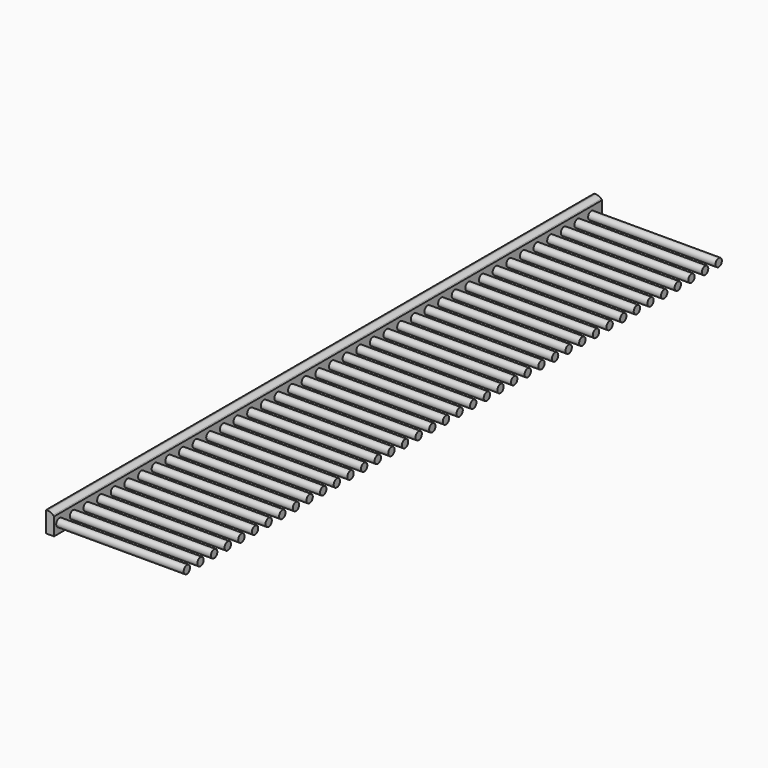
from build123d import *

# Parameters (mm, degrees)
F0_R     = 2.5
F1_DEPTH = 80
F0_W     = 430
F0_H     = 13
F2_DEPTH = 5
F3_SIZE  = 2
F4_R     = 5


with BuildPart() as f1:
    # F0 (on Right) → F1 (new body)
    with BuildSketch(Plane.YZ):
        with Locations((-200.1, 3.8362770776)):
            Circle(F0_R)
    extrude(amount=F1_DEPTH)


with BuildPart() as f1b:
    # F0 (on Right) → F1, piece 2 (new body)
    with BuildSketch(Plane.YZ):
        with Locations((-210.8, 3.8362770776)):
            Circle(F0_R)
    extrude(amount=F1_DEPTH)


with BuildPart() as f1c:
    # F0 (on Right) → F1, piece 3 (new body)
    with BuildSketch(Plane.YZ):
        with Locations((-189.4, 3.8362770776)):
            Circle(F0_R)
    extrude(amount=F1_DEPTH)


with BuildPart() as f1d:
    # F0 (on Right) → F1, piece 4 (new body)
    with BuildSketch(Plane.YZ):
        with Locations((-178.7, 3.8362770776)):
            Circle(F0_R)
    extrude(amount=F1_DEPTH)


with BuildPart() as f1e:
    # F0 (on Right) → F1, piece 5 (new body)
    with BuildSketch(Plane.YZ):
        with Locations((-168, 3.8362770776)):
            Circle(F0_R)
    extrude(amount=F1_DEPTH)


with BuildPart() as f1f:
    # F0 (on Right) → F1, piece 6 (new body)
    with BuildSketch(Plane.YZ):
        with Locations((-157.3, 3.8362770776)):
            Circle(F0_R)
    extrude(amount=F1_DEPTH)


with BuildPart() as f1g:
    # F0 (on Right) → F1, piece 7 (new body)
    with BuildSketch(Plane.YZ):
        with Locations((-146.6, 3.8362770776)):
            Circle(F0_R)
    extrude(amount=F1_DEPTH)


with BuildPart() as f1h:
    # F0 (on Right) → F1, piece 8 (new body)
    with BuildSketch(Plane.YZ):
        with Locations((-135.9, 3.8362770776)):
            Circle(F0_R)
    extrude(amount=F1_DEPTH)


with BuildPart() as f1i:
    # F0 (on Right) → F1, piece 9 (new body)
    with BuildSketch(Plane.YZ):
        with Locations((-125.2, 3.8362770776)):
            Circle(F0_R)
    extrude(amount=F1_DEPTH)


with BuildPart() as f1j:
    # F0 (on Right) → F1, piece 10 (new body)
    with BuildSketch(Plane.YZ):
        with Locations((-114.5, 3.8362770776)):
            Circle(F0_R)
    extrude(amount=F1_DEPTH)


with BuildPart() as f1k:
    # F0 (on Right) → F1, piece 11 (new body)
    with BuildSketch(Plane.YZ):
        with Locations((-103.8, 3.8362770776)):
            Circle(F0_R)
    extrude(amount=F1_DEPTH)


with BuildPart() as f1l:
    # F0 (on Right) → F1, piece 12 (new body)
    with BuildSketch(Plane.YZ):
        with Locations((-93.1, 3.8362770776)):
            Circle(F0_R)
    extrude(amount=F1_DEPTH)


with BuildPart() as f1m:
    # F0 (on Right) → F1, piece 13 (new body)
    with BuildSketch(Plane.YZ):
        with Locations((-82.4, 3.8362770776)):
            Circle(F0_R)
    extrude(amount=F1_DEPTH)


with BuildPart() as f1n:
    # F0 (on Right) → F1, piece 14 (new body)
    with BuildSketch(Plane.YZ):
        with Locations((-71.7, 3.8362770776)):
            Circle(F0_R)
    extrude(amount=F1_DEPTH)


with BuildPart() as f1o:
    # F0 (on Right) → F1, piece 15 (new body)
    with BuildSketch(Plane.YZ):
        with Locations((-61, 3.8362770776)):
            Circle(F0_R)
    extrude(amount=F1_DEPTH)


with BuildPart() as f1p:
    # F0 (on Right) → F1, piece 16 (new body)
    with BuildSketch(Plane.YZ):
        with Locations((-50.3, 3.8362770776)):
            Circle(F0_R)
    extrude(amount=F1_DEPTH)


with BuildPart() as f1q:
    # F0 (on Right) → F1, piece 17 (new body)
    with BuildSketch(Plane.YZ):
        with Locations((-39.6, 3.8362770776)):
            Circle(F0_R)
    extrude(amount=F1_DEPTH)


with BuildPart() as f1r:
    # F0 (on Right) → F1, piece 18 (new body)
    with BuildSketch(Plane.YZ):
        with Locations((-28.9, 3.8362770776)):
            Circle(F0_R)
    extrude(amount=F1_DEPTH)


with BuildPart() as f1s:
    # F0 (on Right) → F1, piece 19 (new body)
    with BuildSketch(Plane.YZ):
        with Locations((-18.2, 3.8362770776)):
            Circle(F0_R)
    extrude(amount=F1_DEPTH)


with BuildPart() as f1t:
    # F0 (on Right) → F1, piece 20 (new body)
    with BuildSketch(Plane.YZ):
        with Locations((-7.5, 3.8362770776)):
            Circle(F0_R)
    extrude(amount=F1_DEPTH)


with BuildPart() as f1u:
    # F0 (on Right) → F1, piece 21 (new body)
    with BuildSketch(Plane.YZ):
        with Locations((3.2, 3.8362770776)):
            Circle(F0_R)
    extrude(amount=F1_DEPTH)


with BuildPart() as f1v:
    # F0 (on Right) → F1, piece 22 (new body)
    with BuildSketch(Plane.YZ):
        with Locations((13.9, 3.8362770776)):
            Circle(F0_R)
    extrude(amount=F1_DEPTH)


with BuildPart() as f1w:
    # F0 (on Right) → F1, piece 23 (new body)
    with BuildSketch(Plane.YZ):
        with Locations((24.6, 3.8362770776)):
            Circle(F0_R)
    extrude(amount=F1_DEPTH)


with BuildPart() as f1x:
    # F0 (on Right) → F1, piece 24 (new body)
    with BuildSketch(Plane.YZ):
        with Locations((35.3, 3.8362770776)):
            Circle(F0_R)
    extrude(amount=F1_DEPTH)


with BuildPart() as f1y:
    # F0 (on Right) → F1, piece 25 (new body)
    with BuildSketch(Plane.YZ):
        with Locations((46, 3.8362770776)):
            Circle(F0_R)
    extrude(amount=F1_DEPTH)


with BuildPart() as f1z:
    # F0 (on Right) → F1, piece 26 (new body)
    with BuildSketch(Plane.YZ):
        with Locations((56.7, 3.8362770776)):
            Circle(F0_R)
    extrude(amount=F1_DEPTH)


with BuildPart() as f1ba:
    # F0 (on Right) → F1, piece 27 (new body)
    with BuildSketch(Plane.YZ):
        with Locations((67.4, 3.8362770776)):
            Circle(F0_R)
    extrude(amount=F1_DEPTH)


with BuildPart() as f1bb:
    # F0 (on Right) → F1, piece 28 (new body)
    with BuildSketch(Plane.YZ):
        with Locations((78.1, 3.8362770776)):
            Circle(F0_R)
    extrude(amount=F1_DEPTH)


with BuildPart() as f1bc:
    # F0 (on Right) → F1, piece 29 (new body)
    with BuildSketch(Plane.YZ):
        with Locations((88.8, 3.8362770776)):
            Circle(F0_R)
    extrude(amount=F1_DEPTH)


with BuildPart() as f1bd:
    # F0 (on Right) → F1, piece 30 (new body)
    with BuildSketch(Plane.YZ):
        with Locations((99.5, 3.8362770776)):
            Circle(F0_R)
    extrude(amount=F1_DEPTH)


with BuildPart() as f1be:
    # F0 (on Right) → F1, piece 31 (new body)
    with BuildSketch(Plane.YZ):
        with Locations((110.2, 3.8362770776)):
            Circle(F0_R)
    extrude(amount=F1_DEPTH)


with BuildPart() as f1bf:
    # F0 (on Right) → F1, piece 32 (new body)
    with BuildSketch(Plane.YZ):
        with Locations((120.9, 3.8362770776)):
            Circle(F0_R)
    extrude(amount=F1_DEPTH)


with BuildPart() as f1bg:
    # F0 (on Right) → F1, piece 33 (new body)
    with BuildSketch(Plane.YZ):
        with Locations((131.6, 3.8362770776)):
            Circle(F0_R)
    extrude(amount=F1_DEPTH)


with BuildPart() as f1bh:
    # F0 (on Right) → F1, piece 34 (new body)
    with BuildSketch(Plane.YZ):
        with Locations((142.3, 3.8362770776)):
            Circle(F0_R)
    extrude(amount=F1_DEPTH)


with BuildPart() as f1bi:
    # F0 (on Right) → F1, piece 35 (new body)
    with BuildSketch(Plane.YZ):
        with Locations((153, 3.8362770776)):
            Circle(F0_R)
    extrude(amount=F1_DEPTH)


with BuildPart() as f1bj:
    # F0 (on Right) → F1, piece 36 (new body)
    with BuildSketch(Plane.YZ):
        with Locations((163.7, 3.8362770776)):
            Circle(F0_R)
    extrude(amount=F1_DEPTH)


with BuildPart() as f1bk:
    # F0 (on Right) → F1, piece 37 (new body)
    with BuildSketch(Plane.YZ):
        with Locations((174.4, 3.8362770776)):
            Circle(F0_R)
    extrude(amount=F1_DEPTH)


with BuildPart() as f1bl:
    # F0 (on Right) → F1, piece 38 (new body)
    with BuildSketch(Plane.YZ):
        with Locations((185.1, 3.8362770776)):
            Circle(F0_R)
    extrude(amount=F1_DEPTH)


with BuildPart() as f1bm:
    # F0 (on Right) → F1, piece 39 (new body)
    with BuildSketch(Plane.YZ):
        with Locations((195.8, 3.8362770776)):
            Circle(F0_R)
    extrude(amount=F1_DEPTH)


with BuildPart() as f1bn:
    # F0 (on Right) → F1, piece 40 (new body)
    with BuildSketch(Plane.YZ):
        with Locations((206.5, 3.8362770776)):
            Circle(F0_R)
    extrude(amount=F1_DEPTH)


with BuildPart() as f2:
    # F0 (on Right) → F2 (new body)
    with BuildSketch(Plane.YZ):
        with Locations((0, 4.3362770776)):
            Rectangle(F0_W, F0_H)
        with Locations((-210.8, 3.8362770776)):
            Circle(F0_R, mode=Mode.SUBTRACT)
        with Locations((-200.1, 3.8362770776)):
            Circle(F0_R, mode=Mode.SUBTRACT)
        with Locations((-189.4, 3.8362770776)):
            Circle(F0_R, mode=Mode.SUBTRACT)
        with Locations((-178.7, 3.8362770776)):
            Circle(F0_R, mode=Mode.SUBTRACT)
        with Locations((-168, 3.8362770776)):
            Circle(F0_R, mode=Mode.SUBTRACT)
        with Locations((-157.3, 3.8362770776)):
            Circle(F0_R, mode=Mode.SUBTRACT)
        with Locations((-146.6, 3.8362770776)):
            Circle(F0_R, mode=Mode.SUBTRACT)
        with Locations((-135.9, 3.8362770776)):
            Circle(F0_R, mode=Mode.SUBTRACT)
        with Locations((-125.2, 3.8362770776)):
            Circle(F0_R, mode=Mode.SUBTRACT)
        with Locations((-114.5, 3.8362770776)):
            Circle(F0_R, mode=Mode.SUBTRACT)
        with Locations((-103.8, 3.8362770776)):
            Circle(F0_R, mode=Mode.SUBTRACT)
        with Locations((-93.1, 3.8362770776)):
            Circle(F0_R, mode=Mode.SUBTRACT)
        with Locations((-82.4, 3.8362770776)):
            Circle(F0_R, mode=Mode.SUBTRACT)
        with Locations((-71.7, 3.8362770776)):
            Circle(F0_R, mode=Mode.SUBTRACT)
        with Locations((-61, 3.8362770776)):
            Circle(F0_R, mode=Mode.SUBTRACT)
        with Locations((-50.3, 3.8362770776)):
            Circle(F0_R, mode=Mode.SUBTRACT)
        with Locations((-39.6, 3.8362770776)):
            Circle(F0_R, mode=Mode.SUBTRACT)
        with Locations((-28.9, 3.8362770776)):
            Circle(F0_R, mode=Mode.SUBTRACT)
        with Locations((-18.2, 3.8362770776)):
            Circle(F0_R, mode=Mode.SUBTRACT)
        with Locations((-7.5, 3.8362770776)):
            Circle(F0_R, mode=Mode.SUBTRACT)
        with Locations((3.2, 3.8362770776)):
            Circle(F0_R, mode=Mode.SUBTRACT)
        with Locations((13.9, 3.8362770776)):
            Circle(F0_R, mode=Mode.SUBTRACT)
        with Locations((24.6, 3.8362770776)):
            Circle(F0_R, mode=Mode.SUBTRACT)
        with Locations((35.3, 3.8362770776)):
            Circle(F0_R, mode=Mode.SUBTRACT)
        with Locations((46, 3.8362770776)):
            Circle(F0_R, mode=Mode.SUBTRACT)
        with Locations((56.7, 3.8362770776)):
            Circle(F0_R, mode=Mode.SUBTRACT)
        with Locations((67.4, 3.8362770776)):
            Circle(F0_R, mode=Mode.SUBTRACT)
        with Locations((78.1, 3.8362770776)):
            Circle(F0_R, mode=Mode.SUBTRACT)
        with Locations((88.8, 3.8362770776)):
            Circle(F0_R, mode=Mode.SUBTRACT)
        with Locations((99.5, 3.8362770776)):
            Circle(F0_R, mode=Mode.SUBTRACT)
        with Locations((110.2, 3.8362770776)):
            Circle(F0_R, mode=Mode.SUBTRACT)
        with Locations((120.9, 3.8362770776)):
            Circle(F0_R, mode=Mode.SUBTRACT)
        with Locations((131.6, 3.8362770776)):
            Circle(F0_R, mode=Mode.SUBTRACT)
        with Locations((142.3, 3.8362770776)):
            Circle(F0_R, mode=Mode.SUBTRACT)
        with Locations((153, 3.8362770776)):
            Circle(F0_R, mode=Mode.SUBTRACT)
        with Locations((163.7, 3.8362770776)):
            Circle(F0_R, mode=Mode.SUBTRACT)
        with Locations((174.4, 3.8362770776)):
            Circle(F0_R, mode=Mode.SUBTRACT)
        with Locations((185.1, 3.8362770776)):
            Circle(F0_R, mode=Mode.SUBTRACT)
        with Locations((195.8, 3.8362770776)):
            Circle(F0_R, mode=Mode.SUBTRACT)
        with Locations((206.5, 3.8362770776)):
            Circle(F0_R, mode=Mode.SUBTRACT)
        with Locations((206.5, 3.8362770776)):
            Circle(F0_R)
        with Locations((195.8, 3.8362770776)):
            Circle(F0_R)
        with Locations((185.1, 3.8362770776)):
            Circle(F0_R)
        with Locations((174.4, 3.8362770776)):
            Circle(F0_R)
        with Locations((163.7, 3.8362770776)):
            Circle(F0_R)
        with Locations((153, 3.8362770776)):
            Circle(F0_R)
        with Locations((142.3, 3.8362770776)):
            Circle(F0_R)
        with Locations((131.6, 3.8362770776)):
            Circle(F0_R)
        with Locations((120.9, 3.8362770776)):
            Circle(F0_R)
        with Locations((110.2, 3.8362770776)):
            Circle(F0_R)
        with Locations((99.5, 3.8362770776)):
            Circle(F0_R)
        with Locations((88.8, 3.8362770776)):
            Circle(F0_R)
        with Locations((78.1, 3.8362770776)):
            Circle(F0_R)
        with Locations((67.4, 3.8362770776)):
            Circle(F0_R)
        with Locations((56.7, 3.8362770776)):
            Circle(F0_R)
        with Locations((46, 3.8362770776)):
            Circle(F0_R)
        with Locations((35.3, 3.8362770776)):
            Circle(F0_R)
        with Locations((24.6, 3.8362770776)):
            Circle(F0_R)
        with Locations((13.9, 3.8362770776)):
            Circle(F0_R)
        with Locations((3.2, 3.8362770776)):
            Circle(F0_R)
        with Locations((-7.5, 3.8362770776)):
            Circle(F0_R)
        with Locations((-18.2, 3.8362770776)):
            Circle(F0_R)
        with Locations((-28.9, 3.8362770776)):
            Circle(F0_R)
        with Locations((-39.6, 3.8362770776)):
            Circle(F0_R)
        with Locations((-50.3, 3.8362770776)):
            Circle(F0_R)
        with Locations((-61, 3.8362770776)):
            Circle(F0_R)
        with Locations((-71.7, 3.8362770776)):
            Circle(F0_R)
        with Locations((-82.4, 3.8362770776)):
            Circle(F0_R)
        with Locations((-93.1, 3.8362770776)):
            Circle(F0_R)
        with Locations((-103.8, 3.8362770776)):
            Circle(F0_R)
        with Locations((-114.5, 3.8362770776)):
            Circle(F0_R)
        with Locations((-125.2, 3.8362770776)):
            Circle(F0_R)
        with Locations((-135.9, 3.8362770776)):
            Circle(F0_R)
        with Locations((-146.6, 3.8362770776)):
            Circle(F0_R)
        with Locations((-157.3, 3.8362770776)):
            Circle(F0_R)
        with Locations((-168, 3.8362770776)):
            Circle(F0_R)
        with Locations((-178.7, 3.8362770776)):
            Circle(F0_R)
        with Locations((-189.4, 3.8362770776)):
            Circle(F0_R)
        with Locations((-200.1, 3.8362770776)):
            Circle(F0_R)
        with Locations((-210.8, 3.8362770776)):
            Circle(F0_R)
    extrude(amount=-F2_DEPTH)

    # F3
    f3_edges = [f2.edges().sort_by_distance(p)[0] for p in [
        (0, 0, 10.836277),
    ]]
    chamfer(f3_edges, length=F3_SIZE)

    # F4
    f4_edges = [f2.edges().sort_by_distance(p)[0] for p in [
        (-2, 0, 10.836277),
    ]]
    fillet(f4_edges, radius=F4_R)


solid = Compound([f1.part, f1b.part, f1c.part, f1d.part, f1e.part, f1f.part, f1g.part, f1h.part, f1i.part, f1j.part, f1k.part, f1l.part, f1m.part, f1n.part, f1o.part, f1p.part, f1q.part, f1r.part, f1s.part, f1t.part, f1u.part, f1v.part, f1w.part, f1x.part, f1y.part, f1z.part, f1ba.part, f1bb.part, f1bc.part, f1bd.part, f1be.part, f1bf.part, f1bg.part, f1bh.part, f1bi.part, f1bj.part, f1bk.part, f1bl.part, f1bm.part, f1bn.part, f2.part])
